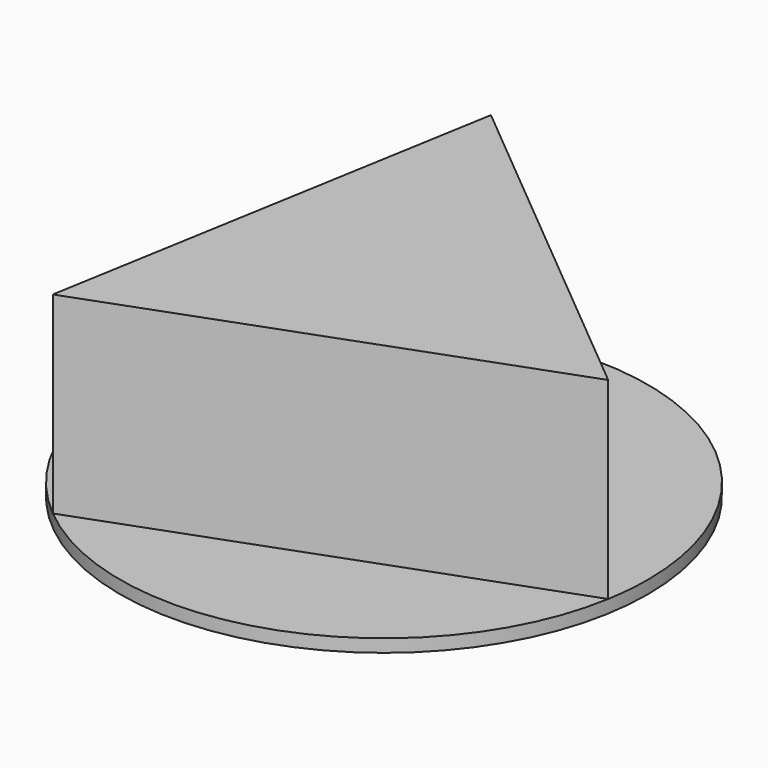
from build123d import *

# Parameters (mm, degrees)
F0_R     = 41.071152
F1_DEPTH = 2
F3_DEPTH = 30


with BuildPart() as f1:
    # F0 (on Top) → F1 (new body)
    with BuildSketch(Plane.XY):
        Circle(F0_R)
    extrude(amount=F1_DEPTH)

    # F2 (on face) → F3 (join)
    with BuildSketch(Plane.XY.offset(2)):
        Polygon((40.473684, -6.980005), (-14.19198, 38.541241), (-26.281704, -31.561236), align=None)
    extrude(amount=F3_DEPTH)


solid = f1.part
